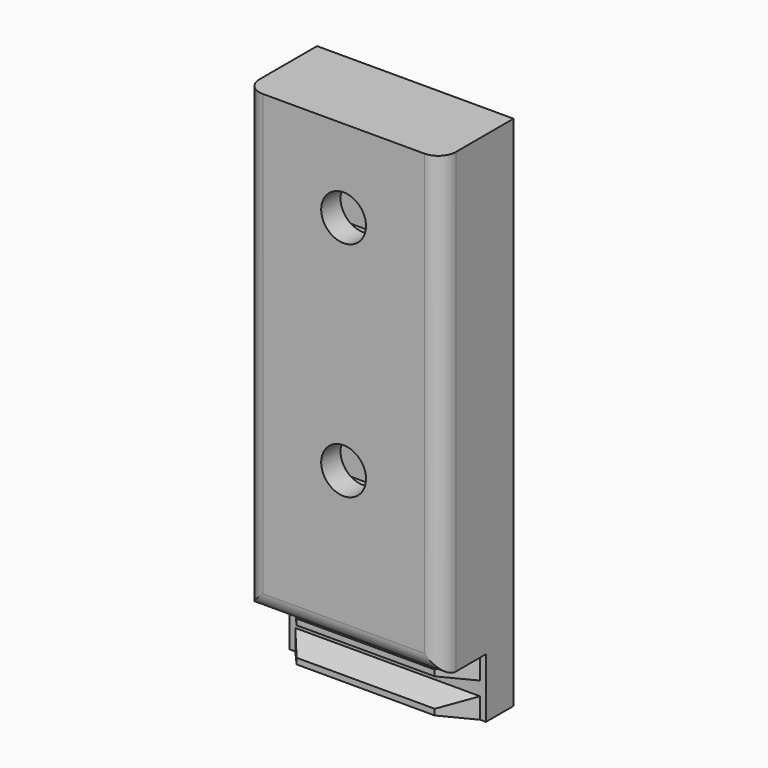
from build123d import *

# Parameters (mm, degrees)
F0_W      = 14.25
F0_H      = 37.5
F0_R      = 1.625
F0_R_2    = 1.5
F1_DEPTH  = 6.5
F2_R      = 1.175
F3_DEPTH  = 5.5
F4_R      = 0.635
F5_W      = 3
F5_H      = 6.75
F6_DEPTH  = 14
F7_W      = 24.5
F7_H      = 4.325
F8_DEPTH  = 4
F9_W      = 13.4
F9_H      = 1.5
F10_DEPTH = 2
F10_TAPER = 15
F12_DEPTH = 4
F13_R     = 1.27


with BuildPart() as f1:
    # F0 (on Front) → F1 (new body)
    with BuildSketch(Plane.XZ):
        with Locations((-7.125, 18.75)):
            Rectangle(F0_W, F0_H)
        with Locations((-7.125, 15.35)):
            Circle(F0_R, mode=Mode.SUBTRACT)
        with Locations((-7.125, 23.425)):
            Circle(F0_R_2, mode=Mode.SUBTRACT)
        with Locations((-7.125, 31.5)):
            Circle(F0_R, mode=Mode.SUBTRACT)
        with Locations((-7.125, 23.425)):
            Circle(F0_R_2)
    extrude(amount=F1_DEPTH)

    # F2 (on face) → F3 (join)
    with BuildSketch(Plane(origin=(0, 0, 0), x_dir=(-1, 0, 0), z_dir=(0, 1, 0))):
        with Locations((7.125, 23.425)):
            Circle(F2_R)
    extrude(amount=F3_DEPTH)

    # F4
    f4_edges = [f1.edges().sort_by_distance(p)[0] for p in [
        (-5.95, 5.5, 23.425),
    ]]
    fillet(f4_edges, radius=F4_R)

    # F5 (on face) → F6 (cut)
    with BuildSketch(Plane(origin=(-14.25, 0, 0), x_dir=(0, -1, 0), z_dir=(-1, 0, 0))):
        with Locations((3.25, 31.5)):
            Rectangle(F5_W, F5_H)
        with Locations((3.25, 15.35)):
            Rectangle(F5_W, F5_H)
    extrude(amount=-F6_DEPTH, mode=Mode.SUBTRACT)

    # F7 (on face) → F8 (cut)
    with BuildSketch(Plane.XZ.offset(6.5)):
        with Locations((-7.125, 2.1625)):
            Rectangle(F7_W, F7_H)
    extrude(amount=-F8_DEPTH, mode=Mode.SUBTRACT)

    # F9 (on face) → F10 (join)
    with BuildSketch(Plane.XZ.offset(2.5)):
        with Locations((-7.125, 0.75)):
            Rectangle(F9_W, F9_H)
        with Locations((-7.125, 3.25)):
            Rectangle(F9_W, F9_H)
    extrude(amount=F10_DEPTH, taper=F10_TAPER)

    # F11 (on face) → F12 (cut)
    with BuildSketch(Plane(origin=(0, 0, 0), x_dir=(1, 0, 0), z_dir=(0, 0, -1))):
        Polygon((-14.25, 4.8693548888), (-14.25, 2.5), (-13.825, 2.5), (-12.125, 4.5109390723), (-2.125, 4.5109390723), (-0.425, 2.5), (0, 2.5), (0, 4.8693548888), align=None)
    extrude(amount=-F12_DEPTH, mode=Mode.SUBTRACT)

    # F13
    f13_edges = [f1.edges().sort_by_distance(p)[0] for p in [
        (-7.125, -6.5, 4.325),
        (-14.25, -6.5, 20.9125),
        (0, -6.5, 20.9125),
    ]]
    fillet(f13_edges, radius=F13_R)


solid = f1.part
